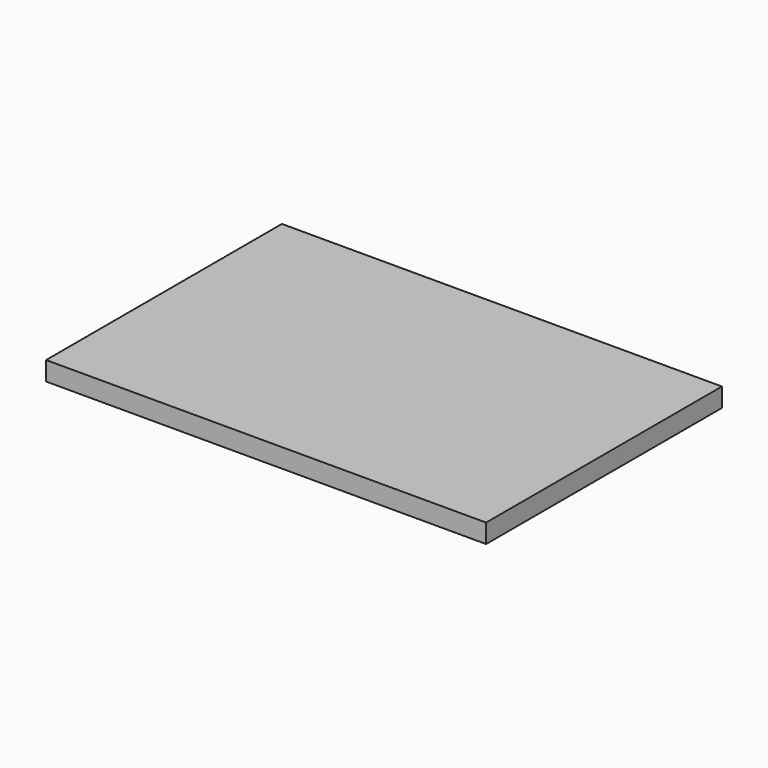
from build123d import *

# Parameters (mm, degrees)
F0_W     = 127.8
F0_H     = 85.6
F1_DEPTH = 5.5
F2_W     = 125.6
F2_H     = 83.4
F3_DEPTH = 4.4


with BuildPart() as f1:
    # F0 (on Top) → F1 (new body)
    with BuildSketch(Plane.XY):
        Rectangle(F0_W, F0_H)
    extrude(amount=F1_DEPTH)

    # F2 (on face) → F3 (cut)
    with BuildSketch(Plane(origin=(0, 0, 0), x_dir=(1, 0, 0), z_dir=(0, 0, -1))):
        Rectangle(F2_W, F2_H)
    extrude(amount=-F3_DEPTH, mode=Mode.SUBTRACT)


solid = f1.part
